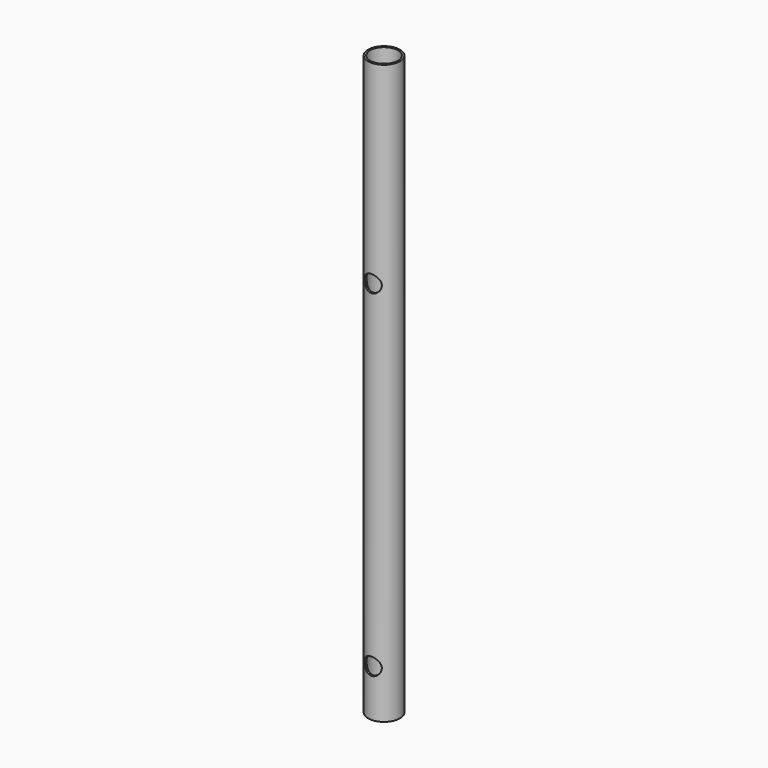
from build123d import *

# Parameters (mm, degrees)
F0_R     = 16.75
F1_DEPTH = 609.6
F2_R     = 14.75
F3_DEPTH = 609.6
F4_R     = 9
F6_DEPTH = 25
F5_R     = 9
F7_DEPTH = 25


with BuildPart() as f1:
    # F0 (on Top) → F1 (new body)
    with BuildSketch(Plane.XY):
        Circle(F0_R)
    extrude(amount=-F1_DEPTH)

    # F2 (on Top) → F3 (cut)
    with BuildSketch(Plane.XY):
        Circle(F2_R)
        Circle(F2_R)
    extrude(amount=-F3_DEPTH, mode=Mode.SUBTRACT)

    # F4 (on Front) → F6 (cut)
    with BuildSketch(Plane.XZ):
        with Locations((0, -204.8)):
            Circle(F4_R)
    extrude(amount=F6_DEPTH, mode=Mode.SUBTRACT)

    # F5 (on Front) → F7 (cut)
    with BuildSketch(Plane.XZ):
        with Locations((0, -559.8)):
            Circle(F5_R)
    extrude(amount=F7_DEPTH, mode=Mode.SUBTRACT)


solid = f1.part
